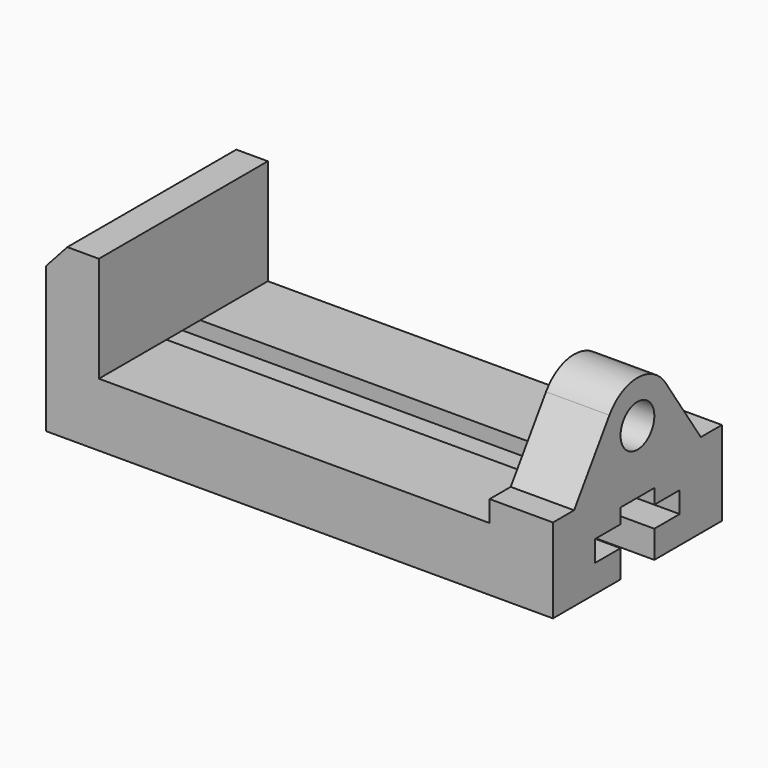
from build123d import *

# Parameters (mm, degrees)
F0_R     = 12.7
F2_DEPTH = 38.1
F3_DEPTH = 127
F4_DEPTH = 304.801


with BuildPart() as f2:
    # F0 (on Right) → F2 (new body)
    with BuildSketch(Plane.YZ):
        with BuildLine():
            Line((0, 50.8), (0, 0))
            Line((0, 0), (50.8, 0))
            Line((50.8, 0), (50.8, 16.51))
            Line((50.8, 16.51), (31.75, 16.51))
            Line((31.75, 16.51), (31.75, 29.21))
            Line((31.75, 29.21), (50.8, 29.21))
            Line((50.8, 29.21), (50.8, 38.1))
            Line((50.8, 38.1), (76.2, 38.1))
            Line((76.2, 38.1), (76.2, 29.21))
            Line((76.2, 29.21), (95.25, 29.21))
            Line((95.25, 29.21), (95.25, 16.51))
            Line((95.25, 16.51), (76.2, 16.51))
            Line((76.2, 16.51), (76.2, 0))
            Line((76.2, 0), (127, 0))
            Line((127, 0), (127, 50.8))
            Line((127, 50.8), (111.125, 50.8))
            Line((111.125, 50.8), (84.593426, 90.350173))
            ThreePointArc((84.593426, 90.350173), (63.5, 101.6), (42.406574, 90.350173))
            Line((42.406574, 90.350173), (15.875, 50.8))
            Line((15.875, 50.8), (0, 50.8))
        make_face()
        with Locations((63.5, 76.2)):
            Circle(F0_R, mode=Mode.SUBTRACT)
    extrude(amount=-F2_DEPTH)

    # F1 (on Front) → F3 (join)
    with BuildSketch(Plane.XZ):
        Polygon((0, 0), (0, 38.1), (-273.05, 38.1), (-273.05, 101.6), (-292.019098, 101.6), (-304.8, 87.473746), (-304.8, 0), align=None)
    extrude(amount=-F3_DEPTH)

    # F0 (on Right) → F4 (cut, through all)
    with BuildSketch(Plane.YZ):
        Polygon((50.8, 16.51), (50.8, 0), (76.2, 0), (76.2, 16.51), (95.25, 16.51), (95.25, 29.21), (76.2, 29.21), (76.2, 38.1), (50.8, 38.1), (50.8, 29.21), (31.75, 29.21), (31.75, 16.51), align=None)
    extrude(amount=-F4_DEPTH, mode=Mode.SUBTRACT)


solid = f2.part
